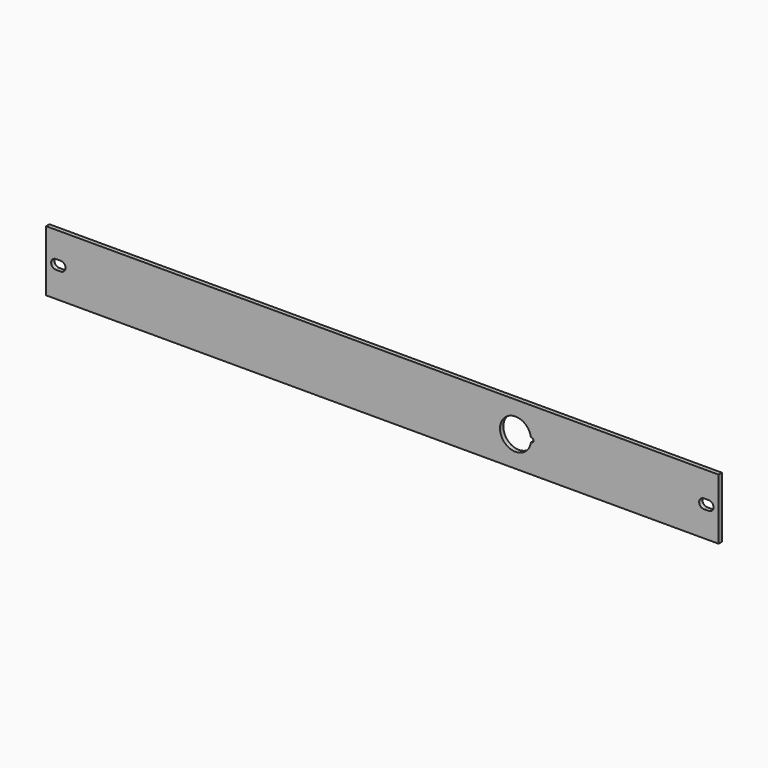
from build123d import *

# Parameters (mm, degrees)
F0_W     = 482.6
F0_H     = 43.7
F1_DEPTH = 3
F2_W     = 3.5
F2_H     = 6.8
F3_W     = 3.5
F3_H     = 6.8
F4_DEPTH = 3
F6_DEPTH = 3


with BuildPart() as f1:
    # F0 (on Front) → F1 (new body)
    with BuildSketch(Plane.XZ):
        Rectangle(F0_W, F0_H)
    extrude(amount=-F1_DEPTH)

    # F2 (on face) + F3 (on face) → F4 (cut)
    with BuildSketch(Plane.XZ):
        with Locations((-232.5, 0)):
            Rectangle(F2_W, F2_H)
        with BuildLine():
            Line((-230.75, 3.4), (-230.75, -3.4))
            ThreePointArc((-230.75, -3.4), (-227.35, 0), (-230.75, 3.4))
        make_face()
        with BuildLine():
            ThreePointArc((-234.25, 3.4), (-237.65, 0), (-234.25, -3.4))
            Line((-234.25, -3.4), (-234.25, 3.4))
        make_face()
    with BuildSketch(Plane.XZ):
        with Locations((232.5, 0)):
            Rectangle(F3_W, F3_H)
        with BuildLine():
            Line((234.25, 3.4), (234.25, -3.4))
            ThreePointArc((234.25, -3.4), (237.65, 0), (234.25, 3.4))
        make_face()
        with BuildLine():
            ThreePointArc((230.75, 3.4), (227.35, 0), (230.75, -3.4))
            Line((230.75, -3.4), (230.75, 3.4))
        make_face()
    extrude(amount=-F4_DEPTH, mode=Mode.SUBTRACT)

    # F5 (on face) → F6 (cut)
    with BuildSketch(Plane.XZ):
        with BuildLine():
            ThreePointArc((106.6389867841, -1.5694810542), (107.9654749762, -1.2364507967), (108.55, 0))
            ThreePointArc((108.55, 0), (107.9654749762, 1.2364507967), (106.6389867841, 1.5694810542))
            ThreePointArc((106.6389867841, 1.5694810542), (106.7222120696, 0.7867011367), (106.75, 0))
            ThreePointArc((106.75, 0), (106.7222120696, -0.7867011367), (106.6389867841, -1.5694810542))
        make_face()
        with BuildLine():
            ThreePointArc((106.75, 0), (106.7222120696, 0.7867011367), (106.6389867841, 1.5694810542))
            ThreePointArc((106.6389867841, 1.5694810542), (105.35, 0), (106.6389867841, -1.5694810542))
            ThreePointArc((106.6389867841, -1.5694810542), (106.7222120696, -0.7867011367), (106.75, 0))
        make_face()
        with BuildLine():
            ThreePointArc((106.6389867841, -1.5694810542), (105.35, 0), (106.6389867841, 1.5694810542))
            ThreePointArc((106.6389867841, 1.5694810542), (84.45, 0), (106.6389867841, -1.5694810542))
        make_face()
    extrude(amount=-F6_DEPTH, mode=Mode.SUBTRACT)


solid = f1.part
